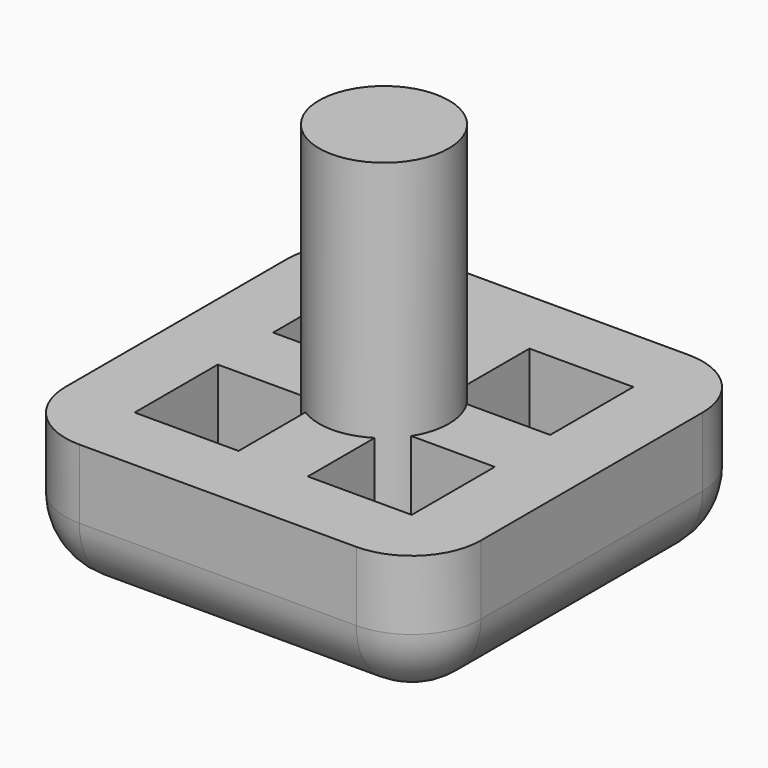
from build123d import *

# Parameters (mm, degrees)
F0_W     = 24
F0_H     = 24
F1_DEPTH = 8
F2_R     = 4
F3_W     = 6
F3_H     = 6
F4_DEPTH = 4
F5_R     = 3.75
F6_DEPTH = 18


with BuildPart() as f1:
    # F0 (on Top) → F1 (new body)
    with BuildSketch(Plane.XY):
        Rectangle(F0_W, F0_H)
    extrude(amount=F1_DEPTH)

    # F2
    f2_edges = [f1.edges().sort_by_distance(p)[0] for p in [
        (0, -12, 0),
        (12, 0, 0),
        (0, 12, 0),
        (-12, 0, 0),
        (12, -12, 4),
        (-12, -12, 4),
        (-12, 12, 4),
        (12, 12, 4),
    ]]
    fillet(f2_edges, radius=F2_R)

    # F3 (on face) → F4 (cut)
    with BuildSketch(Plane.XY.offset(8)):
        with Locations((5, 5)):
            Rectangle(F3_W, F3_H)
        with Locations((-5, 5)):
            Rectangle(F3_W, F3_H)
        with Locations((5, -5)):
            Rectangle(F3_W, F3_H)
        with Locations((-5, -5)):
            Rectangle(F3_W, F3_H)
    extrude(amount=-F4_DEPTH, mode=Mode.SUBTRACT)

    # F5 (on face) → F6 (join)
    with BuildSketch(Plane.XY.offset(4)):
        Circle(F5_R)
    extrude(amount=F6_DEPTH)


solid = f1.part
